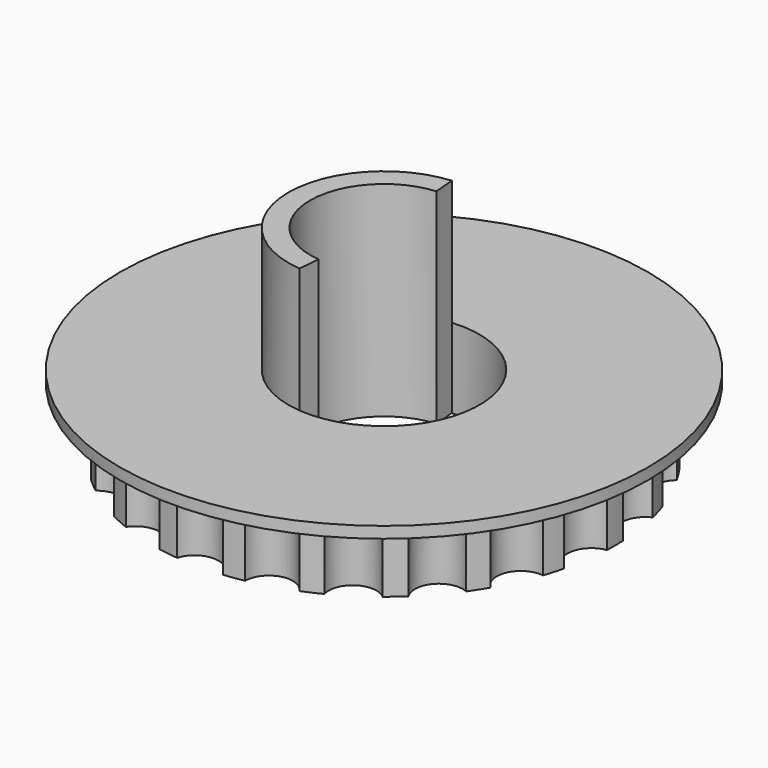
from build123d import *

# Parameters (mm, degrees)
SKETCH006_R        = 20.3333820507
PAD006_DEPTH       = 6
SKETCH007_R        = 2.1
POCKET_DEPTH       = 121.6482464863
POLARPATTERN_COUNT = 22
SKETCH013_R        = 23.2333820507
PAD007_DEPTH       = 1
SKETCH008_R        = 16
SKETCH008_R_2      = 10.075
POCKET001_DEPTH    = 4.2
SKETCH014_R        = 12
PAD008_DEPTH       = 0.2
SKETCH015_R        = 8.4
POCKET002_DEPTH    = 7.001
PAD009_DEPTH       = 18


with BuildPart() as part:
    # Sketch006 → Pad006 (new body)
    with BuildSketch(Plane.XY):
        Circle(SKETCH006_R)
    extrude(amount=PAD006_DEPTH)

    # Sketch007 (on Face3 of Pad006) → Pocket (cut, through all)
    with BuildSketch(Plane.XY.offset(6)):
        with Locations((0, 20.8333820507)):
            Circle(SKETCH007_R)
    pocket = extrude(amount=-POCKET_DEPTH, mode=Mode.SUBTRACT)

    # PolarPattern: Pocket ×22 about axis
    polarpattern_axis = Axis((0, 0, 6), (0, 0, 1))
    for i in range(1, POLARPATTERN_COUNT):
        add(pocket.rotate(polarpattern_axis, i * 360 / POLARPATTERN_COUNT), mode=Mode.SUBTRACT)

    # Sketch013 (on Face4 of PolarPattern) → Pad007 (join)
    with BuildSketch(Plane.XY.offset(6)):
        Circle(SKETCH013_R)
    extrude(amount=PAD007_DEPTH)

    # Sketch008 (on Face2 of PolarPattern) → Pocket001 (cut)
    with BuildSketch(Plane(origin=(0, 0, 0), x_dir=(1, 0, 0), z_dir=(0, 0, -1))):
        Circle(SKETCH008_R)
        Circle(SKETCH008_R_2, mode=Mode.SUBTRACT)
    extrude(amount=-POCKET001_DEPTH, mode=Mode.SUBTRACT)

    # Sketch014 (on Face51 of Pocket001) → Pad008 (join)
    with BuildSketch(Plane(origin=(0, 0, 4.2), x_dir=(1, 0, 0), z_dir=(0, 0, -1))):
        Circle(SKETCH014_R)
    extrude(amount=PAD008_DEPTH)

    # Sketch015 (on Face55 of Pad008) → Pocket002 (cut, through all)
    with BuildSketch(Plane(origin=(0, 0, 0), x_dir=(1, 0, 0), z_dir=(0, 0, -1))):
        Circle(SKETCH015_R)
    extrude(amount=-POCKET002_DEPTH, mode=Mode.SUBTRACT)

    # Sketch016 (on Face51 of Pocket002) → Pad009 (join)
    with BuildSketch(Plane(origin=(0, 0, 0), x_dir=(1, 0, 0), z_dir=(0, 0, -1))):
        with BuildLine():
            Line((-0.7321082391, -8.368035464), (-0.5665123279, -6.4752655376))
            ThreePointArc((-0.5665123279, 6.4752655376), (-6.5, 0), (-0.5665123279, -6.4752655376))
            Line((-0.7321082391, 8.368035464), (-0.5665123279, 6.4752655376))
            ThreePointArc((-0.7321082391, 8.368035464), (-8.4, 0), (-0.7321082391, -8.368035464))
        make_face()
    extrude(amount=-PAD009_DEPTH)


with BuildPart() as part_1:
    # Body001 placement: moved
    add(part.part.moved(Location((0, 0, 2.2))))


solid = part_1.part
